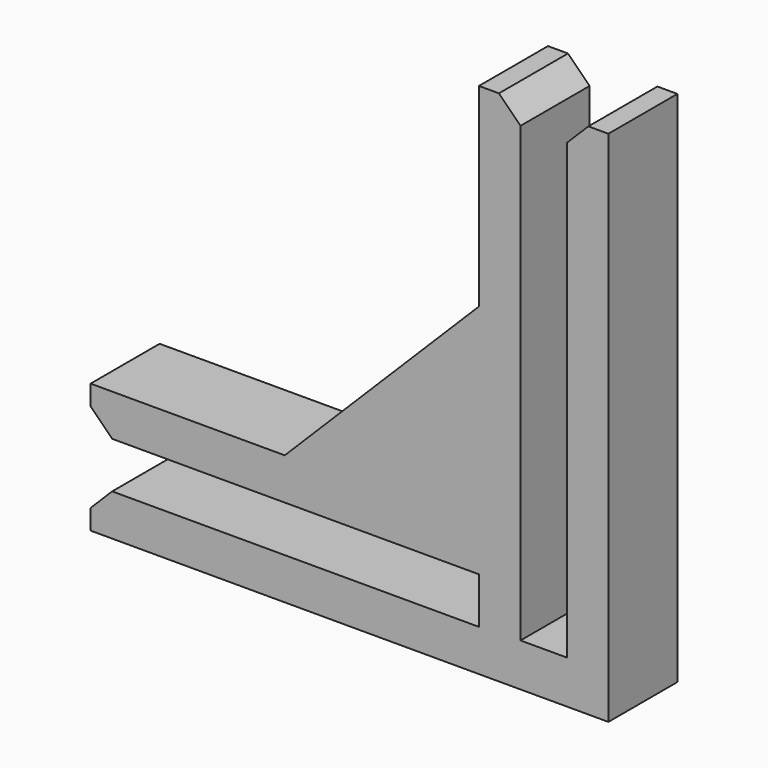
from build123d import *

# Parameters (mm, degrees)
F0_W     = 1.53035
F0_H     = 11.1125
F0_H_2   = 3.175
F0_W_2   = 1.7018
F0_H_3   = 1.53035
F0_W_3   = 11.1125
F0_W_4   = 3.175
F0_H_4   = 1.7018
F1_DEPTH = 3.175
F3_DEPTH = 1.5875
F4_SIZE  = 0.79375
F5_DEPTH = 6.35
F6_DEPTH = 3.175


with BuildPart() as f1:
    # F0 (on Front) → F1 (new body)
    with BuildSketch(Plane.XZ):
        with Locations((-0.765175, 13.49375)):
            Rectangle(F0_W, F0_H)
        with Locations((-3.997325, 13.49375)):
            Rectangle(F0_W, F0_H)
        with Locations((-0.765175, 6.35)):
            Rectangle(F0_W, F0_H_2)
        with Locations((-2.38125, 6.35)):
            Rectangle(F0_W_2, F0_H_2)
        with Locations((-3.997325, 6.35)):
            Rectangle(F0_W, F0_H_2)
        Polygon((-4.7625, 0), (0, 0), (0, 4.7625), (-1.53035, 4.7625), (-1.53035, 1.53035), (-4.7625, 1.53035), align=None)
        Polygon((-4.7625, 3.23215), (-4.7625, 1.53035), (-1.53035, 1.53035), (-1.53035, 4.7625), (-3.23215, 4.7625), (-3.23215, 3.23215), align=None)
        with Locations((-3.997325, 3.997325)):
            Rectangle(F0_W, F0_H_3)
        with Locations((-13.49375, 3.997325)):
            Rectangle(F0_W_3, F0_H_3)
        with Locations((-13.49375, 0.765175)):
            Rectangle(F0_W_3, F0_H_3)
        with Locations((-6.35, 0.765175)):
            Rectangle(F0_W_4, F0_H_3)
        with Locations((-6.35, 2.38125)):
            Rectangle(F0_W_4, F0_H_4)
        with Locations((-6.35, 3.997325)):
            Rectangle(F0_W_4, F0_H_3)
    extrude(amount=F1_DEPTH)

    # F2 (on face) → F3 (join)
    with BuildSketch(Plane.XZ.offset(3.175)):
        Polygon((-4.7625, 11.90625), (-11.90625, 4.7625), (-4.7625, 4.7625), align=None)
    extrude(amount=-F3_DEPTH)

    # F4
    f4_edges = [f1.edges().sort_by_distance(p)[0] for p in [
        (-19.05, -1.5875, 3.23215),
        (-19.05, -1.5875, 1.53035),
        (-1.53035, -1.5875, 19.05),
        (-3.23215, -1.5875, 19.05),
    ]]
    chamfer(f4_edges, length=F4_SIZE)

    # F5 (cut): a face of the model
    f5_faces = [f1.faces().sort_by_distance(p)[0] for p in [
        (-2.38125, -1.5875, 7.9375),
    ]]
    extrude(f5_faces, amount=-F5_DEPTH, mode=Mode.SUBTRACT)

    # F6 (cut): a face of the model
    f6_faces = [f1.faces().sort_by_distance(p)[0] for p in [
        (-7.9375, -1.5875, 2.38125),
    ]]
    extrude(f6_faces, amount=-F6_DEPTH, mode=Mode.SUBTRACT)


solid = f1.part
